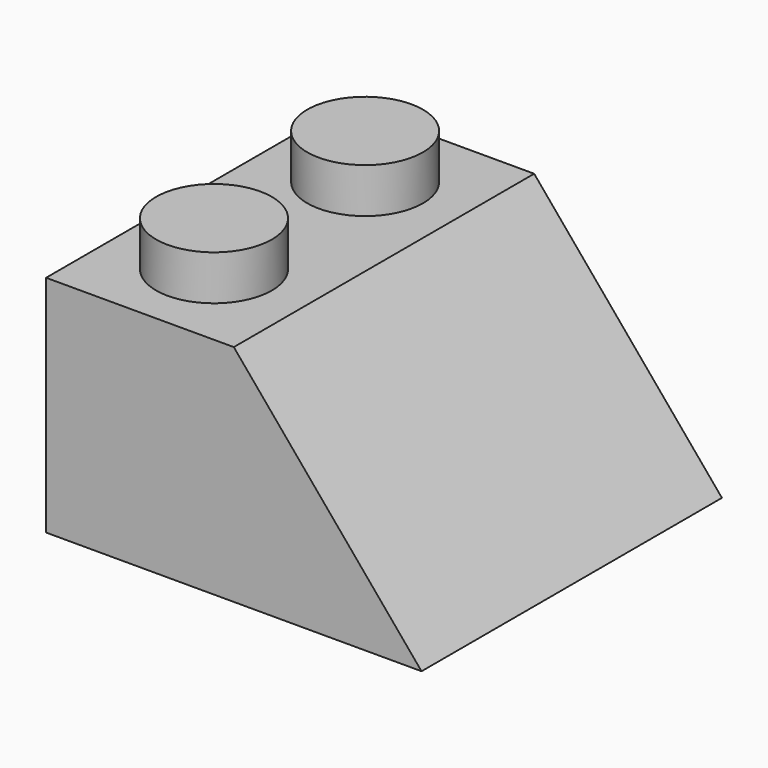
from build123d import *

# Parameters (mm, degrees)
F0_W     = 15.9
F0_H     = 15.9
F0_R     = 2.45
F1_DEPTH = 9.5
F2_DEPTH = 11.4
F3_R     = 2.725
F5_DEPTH = 9.5
F6_DEPTH = 25
F7_T     = -1.5


with BuildPart() as f1:
    # F0 (on Top) → F1 (new body)
    with BuildSketch(Plane.XY):
        with Locations((7.95, -7.95)):
            Rectangle(F0_W, F0_H)
        with Locations((3.95, -11.95)):
            Circle(F0_R, mode=Mode.SUBTRACT)
        with Locations((3.95, -3.95)):
            Circle(F0_R, mode=Mode.SUBTRACT)
    extrude(amount=F1_DEPTH)

    # F0 (on Top) → F2 (join)
    with BuildSketch(Plane.XY):
        with Locations((3.95, -3.95)):
            Circle(F0_R)
        with Locations((3.95, -11.95)):
            Circle(F0_R)
    extrude(amount=F2_DEPTH)

    # F3 (on face) → F5 (join)
    with BuildSketch(Plane.XY):
        with BuildLine():
            ThreePointArc((5.8339274183, -5.5163069567), (5.6824116139, -5.6824116139), (5.5163069567, -5.8339274183))
            ThreePointArc((5.5163069567, -5.8339274183), (4.725, -7.95), (5.5163069567, -10.0660725817))
            ThreePointArc((5.5163069567, -10.0660725817), (5.6824116139, -10.2175883861), (5.8339274183, -10.3836930433))
            ThreePointArc((5.8339274183, -10.3836930433), (9.287215563, -10.884702632), (11.175, -7.95))
            ThreePointArc((11.175, -7.95), (9.287215563, -5.015297368), (5.8339274183, -5.5163069567))
        make_face()
        with Locations((7.95, -7.95)):
            Circle(F3_R, mode=Mode.SUBTRACT)
    extrude(amount=F5_DEPTH)

    # F4 (on face) → F6 (cut)
    with BuildSketch(Plane.XZ.offset(15.9)):
        Polygon((15.9, 9.5), (7.95, 9.5), (15.9, 0), align=None)
    extrude(amount=-F6_DEPTH, mode=Mode.SUBTRACT)

    # F7
    f7_openings = [f1.faces().sort_by_distance(p)[0] for p in [
        (7.95, -7.95, 0),
    ]]
    offset(amount=F7_T, openings=f7_openings, kind=Kind.INTERSECTION)


solid = f1.part
